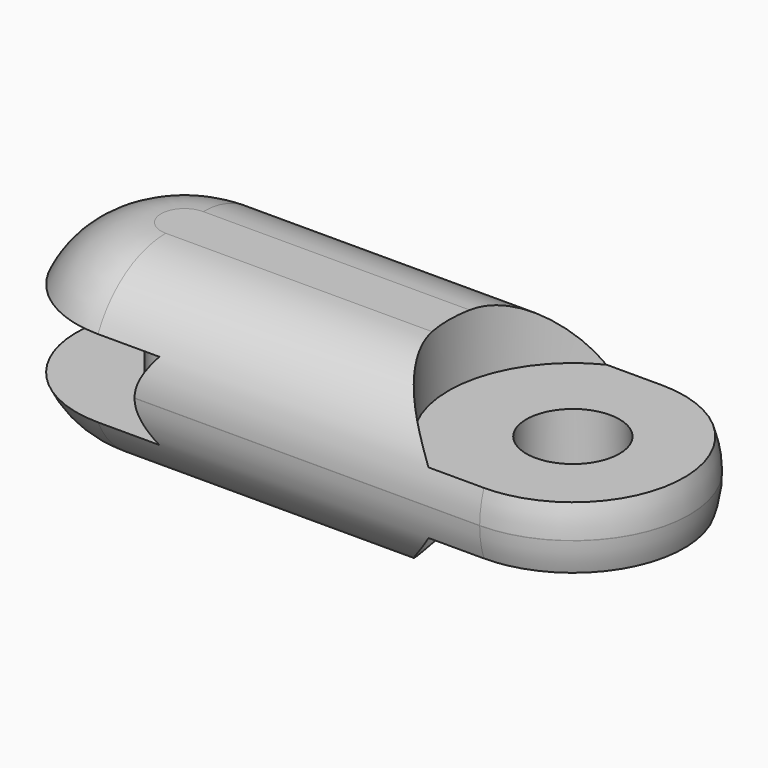
from build123d import *

# Parameters (mm, degrees)
PAD_DEPTH       = 6
FILLET_R        = 5.99
SKETCH001_R     = 8
POCKET_DEPTH    = 2.5
SKETCH002_R     = 8
POCKET001_DEPTH = 4.001
SKETCH003_R     = 8
POCKET002_DEPTH = 4.001
SKETCH004_R     = 3
POCKET003_DEPTH = 4
SKETCH005_R     = 2
PAD001_DEPTH    = 5


with BuildPart() as part:
    # Sketch → Pad (new body, symmetric)
    with BuildSketch(Plane.XY):
        with BuildLine():
            ThreePointArc((0, 7.5), (-7.5, 0), (0, -7.5))
            Line((0, -7.5), (25, -7.5))
            ThreePointArc((25, -7.5), (32.5, 0), (25, 7.5))
            Line((25, 7.5), (0, 7.5))
        make_face()
    extrude(amount=PAD_DEPTH, both=True)

    # Fillet
    fillet_edges = [part.edges().sort_by_distance(p)[0] for p in [
        (0, -7.5, 0),
        (25, -7.5, 0),
        (12.5, -7.5, -6),
        (12.5, -7.5, 6),
    ]]
    fillet(fillet_edges, radius=FILLET_R)

    # Sketch001 → Pocket (cut, symmetric)
    with BuildSketch(Plane.XY):
        Circle(SKETCH001_R)
    extrude(amount=POCKET_DEPTH, both=True, mode=Mode.SUBTRACT)

    # Sketch002 → Pocket001 (cut, through all)
    with BuildSketch(Plane.XY.offset(2)):
        with Locations((25, 0)):
            Circle(SKETCH002_R)
    extrude(amount=POCKET001_DEPTH, mode=Mode.SUBTRACT)

    # Sketch003 → Pocket002 (cut, through all)
    with BuildSketch(Plane.XY.offset(-2)):
        with Locations((25, 0)):
            Circle(SKETCH003_R)
    extrude(amount=-POCKET002_DEPTH, mode=Mode.SUBTRACT)

    # Sketch004 (on Face17 of Pocket002) → Pocket003 (cut)
    with BuildSketch(Plane.XY.offset(2)):
        with Locations((25, 0)):
            Circle(SKETCH004_R)
    extrude(amount=-POCKET003_DEPTH, mode=Mode.SUBTRACT)

    # Sketch005 (on Face6 of Pocket003) → Pad001 (join)
    with BuildSketch(Plane.XY.offset(-2.5)):
        Circle(SKETCH005_R)
    extrude(amount=PAD001_DEPTH)


solid = part.part
